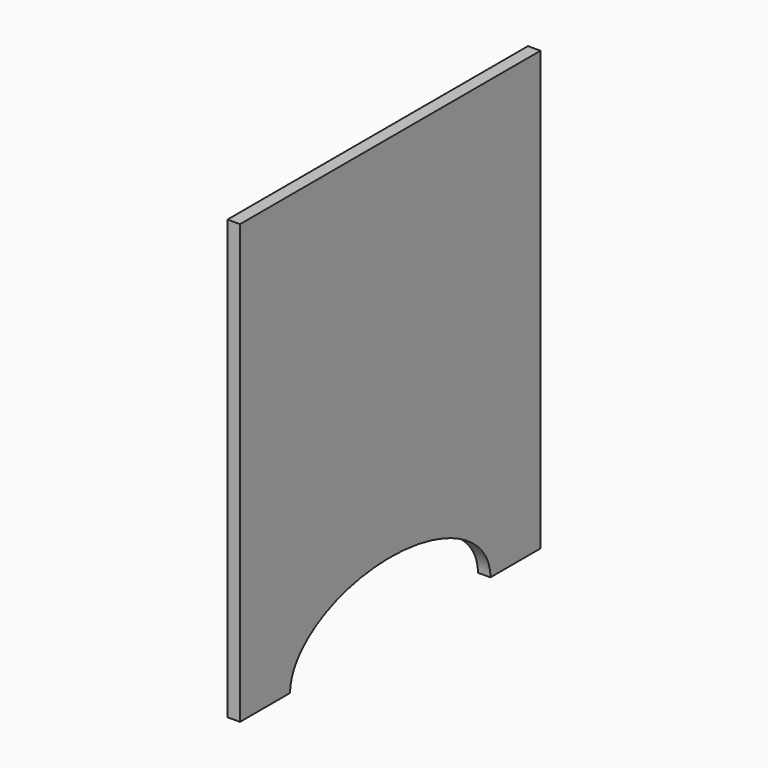
from build123d import *

# Parameters (mm, degrees)
F1_DEPTH = 20


with BuildPart() as f1:
    # F0 (on Right) → F1 (new body)
    with BuildSketch(Plane.YZ):
        with BuildLine():
            Line((244.647855, -305.585462), (-355.352145, -305.585462))
            Line((-355.352145, -305.585462), (-355.352145, -1005.585462))
            Line((-355.352145, -1005.585462), (-255.352145, -1005.585462))
            add(Edge.make_bspline(
                [(144.647855, -1005.585462), (144.647855, -895.918667), (-55.352145, -895.918667), (-255.352145, -895.918667), (-255.352145, -1005.585462)],
                knots=[0, 0, 0, 1.570796, 1.570796, 3.141593, 3.141593, 3.141593], degree=2, weights=[1, 0.707107, 1, 0.707107, 1]))
            Line((144.647855, -1005.585462), (244.647855, -1005.585462))
            Line((244.647855, -1005.585462), (244.647855, -305.585462))
        make_face()
    extrude(amount=F1_DEPTH)


solid = f1.part
